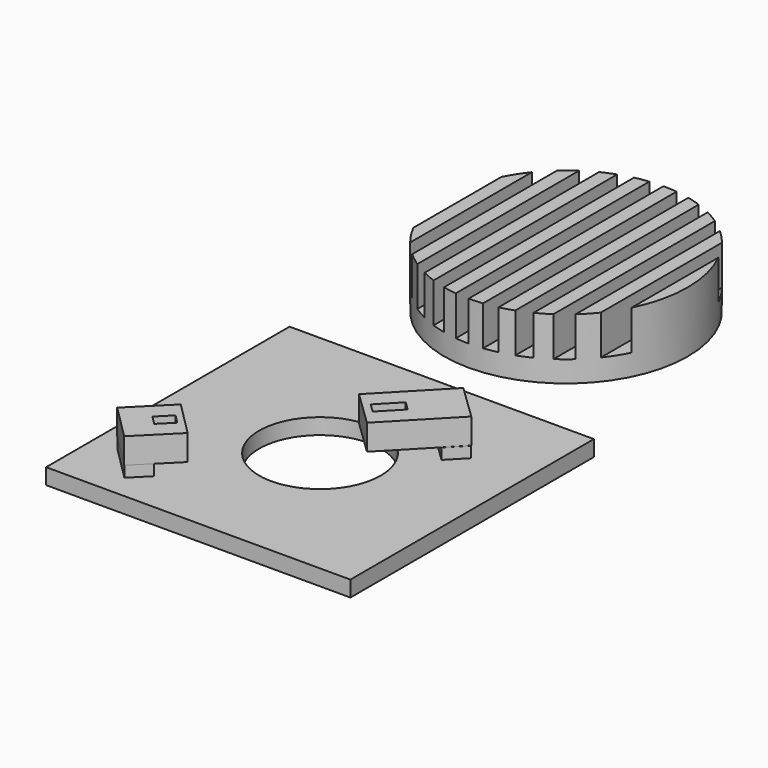
from build123d import *

# Parameters (mm, degrees)
SKETCH001_W                               = 2.23349
SKETCH001_H                               = 39.923653
SKETCH001_W_2                             = 2.233494
SKETCH001_H_2                             = 40.016715
SKETCH001_W_3                             = 2.204327
SKETCH001_H_3                             = 40.844541
SKETCH001_W_4                             = 2.233492
SKETCH001_H_4                             = 40.109777
SKETCH001_W_5                             = 2.233491
EXTRUDE_DEPTH                             = 6.5
CYLINDER001_R                             = 20
CYLINDER001_DEPTH                         = 10
CUT001_PLACEMENT_ANGLE                    = 180
SKETCH002_R                               = 3
SKETCH002_R_2                             = 2.35
EXTRUDE001_DEPTH                          = 3
SKETCH005_AS_DRAWN_W                      = 2.018315
SKETCH005_AS_DRAWN_H                      = 4.540272
EXTRUDE002_DEPTH                          = 4.5
EXTRUDE002_ONTO_SKETCH005_PLACEMENT_ANGLE = 136
BOX004_W                                  = 8
BOX004_H                                  = 13.5
BOX004_DEPTH                              = 4.2
BOX004_PLACEMENT_ANGLE                    = 136
BOX002_W                                  = 8
BOX002_H                                  = 3.8
BOX002_DEPTH                              = 1.8
BOX002_PLACEMENT_ANGLE                    = 136
CYLINDER_R                                = 10
CYLINDER_DEPTH                            = 2.6
BOX_W                                     = 50
BOX_H                                     = 50
BOX_DEPTH                                 = 2.6
SKETCH006_AS_DRAWN_W                      = 2.0548
SKETCH006_AS_DRAWN_H                      = 2.98173
EXTRUDE003_DEPTH                          = 4.5
EXTRUDE003_ONTO_SKETCH006_PLACEMENT_ANGLE = 135
BOX003_W                                  = 8
BOX003_H                                  = 8.2
BOX003_DEPTH                              = 4.2
BOX003_PLACEMENT_ANGLE                    = 135
BOX001_W                                  = 8
BOX001_H                                  = 3.8
BOX001_DEPTH                              = 1.8
BOX001_PLACEMENT_ANGLE                    = 135


with BuildPart() as extrude_body:
    # Sketch001 (on Cylinder) → Extrude (new body)
    with BuildSketch(Plane(origin=(25.88, -24.43, 1.58), x_dir=(1, 0, 0), z_dir=(0, 0, 1))):
        with Locations((3.379402, 0.007826)):
            Rectangle(SKETCH001_W, SKETCH001_H)
        with Locations((7.846387, 0.007826)):
            Rectangle(SKETCH001_W_2, SKETCH001_H)
        with Locations((12.313369, 0.054358)):
            Rectangle(SKETCH001_W, SKETCH001_H_2)
        with Locations((16.780351, 0.054358)):
            Rectangle(SKETCH001_W_2, SKETCH001_H_2)
        with Locations((-1.102163, -0.266493)):
            Rectangle(SKETCH001_W_3, SKETCH001_H_3)
        with Locations((-5.554563, 0.100888)):
            Rectangle(SKETCH001_W_4, SKETCH001_H_4)
        with Locations((-10.021547, 0.054358)):
            Rectangle(SKETCH001_W_4, SKETCH001_H_2)
        with Locations((-14.48853, 0.054358)):
            Rectangle(SKETCH001_W_4, SKETCH001_H_2)
        with Locations((-18.955512, 0.100888)):
            Rectangle(SKETCH001_W_5, SKETCH001_H_4)
    extrude(amount=EXTRUDE_DEPTH)


with BuildPart() as cut001:
    # Cylinder001 → Cylinder001 (new body)
    with BuildSketch(Plane(origin=(25.88, -24.43, 1.58), x_dir=(1, 0, 0), z_dir=(0, 0, 1))):
        Circle(CYLINDER001_R)
    extrude(amount=CYLINDER001_DEPTH)

    # Cut001: cut Extrude body
    add(extrude_body.part, mode=Mode.SUBTRACT)


with BuildPart() as cut001_1:
    # Cut001 placement: moved
    add(cut001.part.moved(Location((0, 50, 12))).rotate(Axis((0, 50, 12), (1, 0, 0)), CUT001_PLACEMENT_ANGLE))


with BuildPart() as fusion003:
    # Sketch002 → Extrude001 (new body)
    with BuildSketch(Plane.XY):
        with Locations((25.84182, 74.524612)):
            Circle(SKETCH002_R)
        with Locations((25.84182, 74.524612)):
            Circle(SKETCH002_R_2, mode=Mode.SUBTRACT)
    extrude(amount=EXTRUDE001_DEPTH)


with BuildPart() as fusion003_1:
    # Extrude001 placement: moved
    add(fusion003.part.moved(Location((0, 0, -2.75))))

    # Fusion003: union Cut001
    add(cut001_1.part)


with BuildPart() as fusion003_2:
    # Fusion003 placement: moved
    add(fusion003_1.part.moved(Location((0, 0, 2.85))))


with BuildPart() as extrude002:
    # Sketch005 as drawn → Extrude002 (new)
    with BuildSketch(Plane.XY):
        with Locations((3.98714, 10.110961)):
            Rectangle(SKETCH005_AS_DRAWN_W, SKETCH005_AS_DRAWN_H)
    extrude(amount=EXTRUDE002_DEPTH)


with BuildPart() as extrude002_1:
    # Extrude002 onto Sketch005 placement: moved
    add(extrude002.part.moved(Location((47.02, 42.01, 12.52))).rotate(Axis((47.02, 42.01, 12.52), (0, 0, 1)), EXTRUDE002_ONTO_SKETCH005_PLACEMENT_ANGLE))


with BuildPart() as extrude002_2:
    # Extrude002 placement: moved
    add(extrude002_1.part.moved(Location((0, 0, -4.5))))


with BuildPart() as cut003:
    # Box004 → Box004 (new body)
    with BuildSketch(Plane.XY):
        with Locations((4, 6.75)):
            Rectangle(BOX004_W, BOX004_H)
    extrude(amount=BOX004_DEPTH)


with BuildPart() as cut003_1:
    # Box004 placement: moved
    add(cut003.part.moved(Location((47.02, 42.01, 8.32))).rotate(Axis((47.02, 42.01, 8.32), (0, 0, 1)), BOX004_PLACEMENT_ANGLE))

    # Cut003: cut Extrude002
    add(extrude002_2.part, mode=Mode.SUBTRACT)


with BuildPart() as cut003_2:
    # Cut003 placement: moved
    add(cut003_1.part.moved(Location((-5.963982, -6.002363, -3.879054))))


with BuildPart() as fusion:
    # Box002 → Box002 (new body)
    with BuildSketch(Plane.XY):
        with Locations((4, 1.9)):
            Rectangle(BOX002_W, BOX002_H)
    extrude(amount=BOX002_DEPTH)


with BuildPart() as fusion_1:
    # Box002 placement: moved
    add(fusion.part.moved(Location((41, 36, 2.6))).rotate(Axis((41, 36, 2.6), (0, 0, 1)), BOX002_PLACEMENT_ANGLE))

    # Fusion: union Cut003
    add(cut003_2.part)


with BuildPart() as cylinder:
    # Cylinder → Cylinder (new body)
    with BuildSketch(Plane(origin=(25, 25, 0), x_dir=(1, 0, 0), z_dir=(0, 0, 1))):
        Circle(CYLINDER_R)
    extrude(amount=CYLINDER_DEPTH)


with BuildPart() as cut:
    # Box → Box (new body)
    with BuildSketch(Plane.XY):
        with Locations((25, 25)):
            Rectangle(BOX_W, BOX_H)
    extrude(amount=BOX_DEPTH)

    # Cut: cut Cylinder
    add(cylinder.part, mode=Mode.SUBTRACT)


with BuildPart() as extrude003:
    # Sketch006 as drawn → Extrude003 (new)
    with BuildSketch(Plane.XY):
        with Locations((4.015499, 2.494238)):
            Rectangle(SKETCH006_AS_DRAWN_W, SKETCH006_AS_DRAWN_H)
    extrude(amount=EXTRUDE003_DEPTH)


with BuildPart() as extrude003_1:
    # Extrude003 onto Sketch006 placement: moved
    add(extrude003.part.moved(Location((15.55, 9.66, 12.99))).rotate(Axis((15.55, 9.66, 12.99), (0, 0, 1)), EXTRUDE003_ONTO_SKETCH006_PLACEMENT_ANGLE))


with BuildPart() as extrude003_2:
    # Extrude003 placement: moved
    add(extrude003_1.part.moved(Location((0, 0, -4.5))))


with BuildPart() as cut004:
    # Box003 → Box003 (new body)
    with BuildSketch(Plane.XY):
        with Locations((4, 4.1)):
            Rectangle(BOX003_W, BOX003_H)
    extrude(amount=BOX003_DEPTH)


with BuildPart() as cut004_1:
    # Box003 placement: moved
    add(cut004.part.moved(Location((15.55, 9.66, 8.79))).rotate(Axis((15.55, 9.66, 8.79), (0, 0, 1)), BOX003_PLACEMENT_ANGLE))

    # Cut004: cut Extrude003
    add(extrude003_2.part, mode=Mode.SUBTRACT)


with BuildPart() as cut004_2:
    # Cut004 placement: moved
    add(cut004_1.part.moved(Location((-0.080851, 0.078243, -4.376037))))


with BuildPart() as fusion004:
    # Box001 → Box001 (new body)
    with BuildSketch(Plane.XY):
        with Locations((4, 1.9)):
            Rectangle(BOX001_W, BOX001_H)
    extrude(amount=BOX001_DEPTH)


with BuildPart() as fusion004_1:
    # Box001 placement: moved
    add(fusion004.part.moved(Location((12.36, 6.67, 2.6))).rotate(Axis((12.36, 6.67, 2.6), (0, 0, 1)), BOX001_PLACEMENT_ANGLE))

    # Fusion001: union Cut004
    add(cut004_2.part)

    # Fusion004: union Fusion, Cut
    add(fusion_1.part)
    add(cut.part)


solid = Compound([fusion003_2.part, fusion004_1.part])
